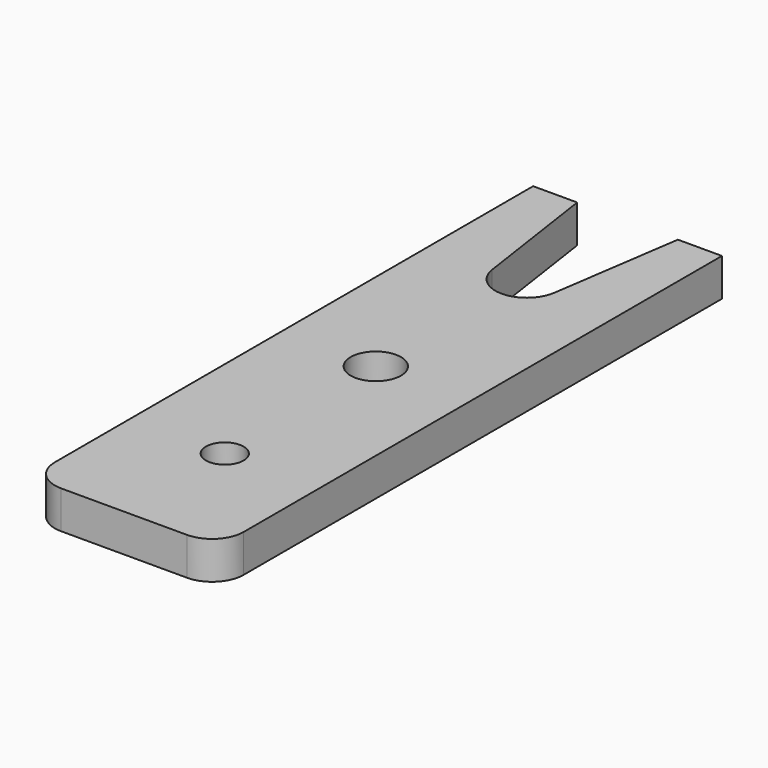
from build123d import *

# Parameters (mm, degrees)
F0_R     = 4
F1_DEPTH = 6


with BuildPart() as f1:
    # F0 (on Top) → F1 (new body)
    with BuildSketch(Plane.XY):
        with BuildLine():
            Line((-8, 50), (-15, 50))
            Line((-15, 50), (-15, -45))
            ThreePointArc((-15, -45), (-13.535534, -48.535534), (-10, -50))
            Line((-10, -50), (0, -50))
            Line((0, -50), (10, -50))
            ThreePointArc((10, -50), (13.535534, -48.535534), (15, -45))
            Line((15, -45), (15, 50))
            Line((15, 50), (8, 50))
            Line((8, 50), (4.946622, 29.271351))
            ThreePointArc((4.946622, 29.271351), (0, 25), (-4.946622, 29.271351))
            Line((-4.946622, 29.271351), (-8, 50))
        make_face()
        with BuildLine():
            ThreePointArc((3, -30), (2.12132, -32.12132), (0, -33))
            ThreePointArc((0, -33), (-2.12132, -27.87868), (3, -30))
        make_face(mode=Mode.SUBTRACT)
        Circle(F0_R, mode=Mode.SUBTRACT)
    extrude(amount=F1_DEPTH)


solid = f1.part
